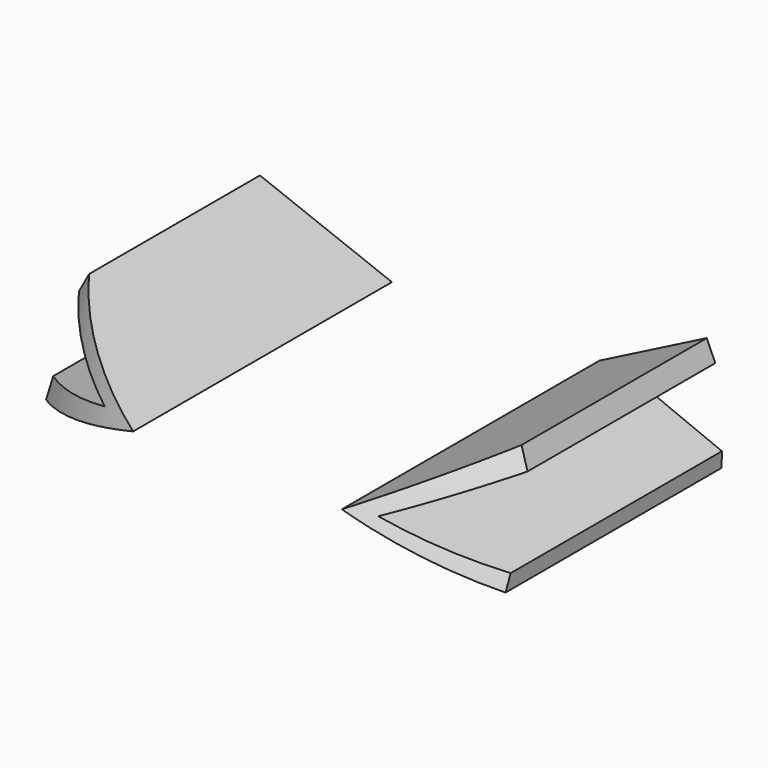
from build123d import *

# Parameters (mm, degrees)
EXTRUDE_DEPTH = 100


with BuildPart() as extrude_body:
    # Sketch012 → Extrude (new body)
    with BuildSketch(Plane.XZ):
        Polygon((-20.197653, 115.267121), (-8.740475, 110.839136), (-21.307601, 106.637034), (-21.058408, 108.328475), (-12.41629, 110.93611), (-21.119285, 113.624325), align=None)
        Polygon((18.599507, 115.45201), (9.277163, 110.699436), (19.879051, 105.94687), (19.908392, 107.232778), (11.73356, 110.573557), (11.682224, 110.573557), (19.327358, 113.772605), align=None)
    extrude(amount=EXTRUDE_DEPTH)


with BuildPart() as common:
    # Sketch → Revolution (revolve)
    with BuildSketch(Plane.XZ):
        with BuildLine():
            Line((0, 0), (0, 135.563389))
            ThreePointArc((23.86226, 121.281178), (13.904936, 131.720055), (0, 135.563389))
            ThreePointArc((32.577943, 87.696618), (30.229669, 105.01041), (23.86226, 121.281178))
            ThreePointArc((22.101567, 52.101534), (30.047255, 69.102202), (32.577943, 87.696618))
            ThreePointArc((22.101567, 52.101534), (13.488015, 26.476163), (18.952965, 0))
            Line((0, 0), (18.952965, 0))
        make_face()
    revolve(axis=Axis((0, 0, 0), (0, 0, 1)))


with BuildPart() as common_1:
    # Clone placement: moved
    add(common.part.moved(Location((0, -1, 0))))

    # Common: intersect Extrude body
    add(extrude_body.part, mode=Mode.INTERSECT)


solid = common_1.part
